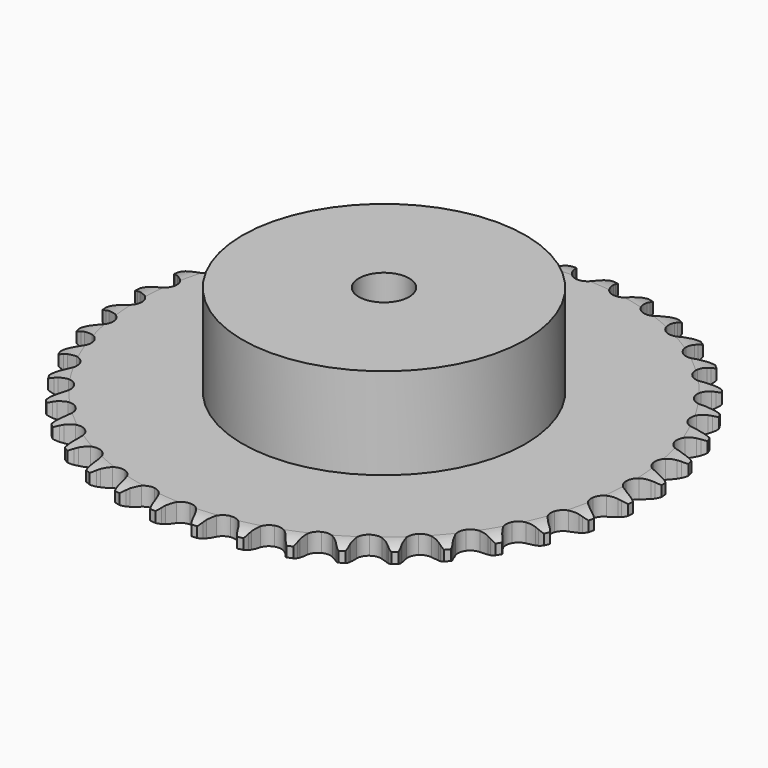
from build123d import *

# Parameters (mm, degrees)
PAD_DEPTH         = 5.9
SKETCH001_R       = 45
PAD001_DEPTH      = 35
SKETCH002_R       = 8
POCKET_DEPTH      = 0.001
POCKET_DEPTH_BACK = 35.001


with BuildPart() as part:
    # Sprocket → Pad (new body)
    with BuildSketch(Plane.XY):
        with BuildLine():
            ThreePointArc((-6.672936, 84.787696), (-5.635143, 83.612537), (-4.92136, 82.216641))
            Line((-4.92136, 82.216641), (-4.543533, 81.172906))
            ThreePointArc((-4.543533, 81.172906), (-3.945873, 79.833685), (-3.161147, 78.594767))
            ThreePointArc((-3.161147, 78.594767), (-1.770001, 77.422275), (0, 77.001417))
            ThreePointArc((0, 77.001417), (1.770001, 77.422275), (3.161147, 78.594767))
            ThreePointArc((3.161147, 78.594767), (3.945873, 79.833685), (4.543533, 81.172906))
            Line((4.543533, 81.172906), (4.92136, 82.216641))
            ThreePointArc((4.92136, 82.216641), (5.635143, 83.612537), (6.672936, 84.787696))
            ThreePointArc((6.672936, 84.787696), (7.514117, 83.464659), (8.000746, 81.974288))
            Line((8.000746, 81.974288), (8.210645, 80.884298))
            ThreePointArc((8.210645, 80.884298), (8.591447, 79.46807), (9.172702, 78.121647))
            ThreePointArc((9.172702, 78.121647), (10.363303, 76.745967), (12.045676, 76.053402))
            ThreePointArc((12.045676, 76.053402), (13.859721, 76.192189), (15.417158, 77.132622))
            Line((15.417158, 77.132622), (17.185835, 79.462768))
            ThreePointArc((17.185835, 79.462768), (17.440743, 79.956009), (17.722286, 80.434547))
            ThreePointArc((17.722286, 80.434547), (18.645648, 81.701597), (19.854499, 82.699942))
            ThreePointArc((19.854499, 82.699942), (20.478355, 81.261603), (20.725848, 79.713456))
            Line((20.725848, 79.713456), (20.76265, 78.60405))
            ThreePointArc((20.76265, 78.60405), (20.917217, 77.145688), (21.280689, 75.724913))
            ThreePointArc((21.280689, 75.724913), (22.241428, 74.179919), (23.794747, 73.2327))
            ThreePointArc((23.794747, 73.2327), (25.60817, 73.085999), (27.293548, 73.771217))
            Line((27.293548, 73.771217), (29.404965, 75.795992))
            ThreePointArc((29.404965, 75.795992), (29.733894, 76.243285), (30.086831, 76.671888))
            ThreePointArc((30.086831, 76.671888), (31.197035, 77.778893), (32.547179, 78.57584))
            ThreePointArc((32.547179, 78.57584), (32.938348, 77.057618), (32.94061, 75.489814))
            Line((32.94061, 75.489814), (32.80341, 74.38831))
            ThreePointArc((32.80341, 74.38831), (32.727936, 72.923723), (32.864675, 71.46358))
            ThreePointArc((32.864675, 71.46358), (33.571895, 69.787316), (34.957912, 68.608765))
            ThreePointArc((34.957912, 68.608765), (36.72606, 68.180188), (38.49788, 68.593319))
            Line((38.49788, 68.593319), (40.900046, 70.262868))
            ThreePointArc((40.900046, 70.262868), (41.294898, 70.653198), (41.710538, 71.021313))
            ThreePointArc((41.710538, 71.021313), (42.980247, 71.941015), (44.438438, 72.516941))
            ThreePointArc((44.438438, 72.516941), (44.587289, 70.956218), (44.344265, 69.407363))
            Line((44.344265, 69.407363), (44.036441, 68.340883))
            ThreePointArc((44.036441, 68.340883), (43.732784, 66.906133), (43.639423, 65.442577))
            ThreePointArc((43.639423, 65.442577), (44.075711, 63.676317), (45.260297, 62.295455))
            ThreePointArc((45.260297, 62.295455), (46.939632, 61.595556), (48.754266, 61.726426))
            Line((48.754266, 61.726426), (51.388033, 62.999639))
            ThreePointArc((51.388033, 62.999639), (51.839085, 63.323394), (52.307193, 63.621957))
            ThreePointArc((52.307193, 63.621957), (53.705143, 64.331709), (55.235476, 64.672433))
            ThreePointArc((55.235476, 64.672433), (55.138344, 63.10764), (54.656017, 61.615872))
            Line((54.656017, 61.615872), (54.185149, 60.610676))
            ThreePointArc((54.185149, 60.610676), (53.660787, 59.241093), (53.339624, 57.810161))
            ThreePointArc((53.339624, 57.810161), (53.494236, 55.997395), (54.448224, 54.448224))
            ThreePointArc((54.448224, 54.448224), (55.997395, 53.494236), (57.810161, 53.339624))
            Line((57.810161, 53.339624), (60.610676, 54.185149))
            ThreePointArc((60.610676, 54.185149), (61.106821, 54.434359), (61.615872, 54.656017))
            ThreePointArc((61.615872, 54.656017), (63.10764, 55.138344), (64.672433, 55.235476))
            ThreePointArc((64.672433, 55.235476), (64.331709, 53.705143), (63.621957, 52.307193))
            Line((63.621957, 52.307193), (62.999639, 51.388033))
            ThreePointArc((62.999639, 51.388033), (62.267482, 50.117341), (61.726426, 48.754266))
            ThreePointArc((61.726426, 48.754266), (61.595556, 46.939632), (62.295455, 45.260297))
            ThreePointArc((62.295455, 45.260297), (63.676317, 44.075711), (65.442577, 43.639423))
            Line((65.442577, 43.639423), (68.340883, 44.036441))
            ThreePointArc((68.340883, 44.036441), (68.869904, 44.204968), (69.407363, 44.344265))
            ThreePointArc((69.407363, 44.344265), (70.956218, 44.587289), (72.516941, 44.438438))
            ThreePointArc((72.516941, 44.438438), (71.941015, 42.980247), (71.021313, 41.710538))
            Line((71.021313, 41.710538), (70.262868, 40.900046))
            ThreePointArc((70.262868, 40.900046), (69.340945, 39.759533), (68.593319, 38.49788))
            ThreePointArc((68.593319, 38.49788), (68.180188, 36.72606), (68.608765, 34.957912))
            ThreePointArc((68.608765, 34.957912), (69.787316, 33.571895), (71.46358, 32.864675))
            Line((71.46358, 32.864675), (74.38831, 32.80341))
            ThreePointArc((74.38831, 32.80341), (74.937182, 32.887105), (75.489814, 32.94061))
            ThreePointArc((75.489814, 32.94061), (77.057618, 32.938348), (78.57584, 32.547179))
            ThreePointArc((78.57584, 32.547179), (77.778893, 31.197035), (76.671888, 30.086831))
            Line((76.671888, 30.086831), (75.795992, 29.404965))
            ThreePointArc((75.795992, 29.404965), (74.707004, 28.422713), (73.771217, 27.293548))
            ThreePointArc((73.771217, 27.293548), (73.085999, 25.60817), (73.2327, 23.794747))
            ThreePointArc((73.2327, 23.794747), (74.179919, 22.241428), (75.724913, 21.280689))
            Line((75.724913, 21.280689), (78.60405, 20.76265))
            ThreePointArc((78.60405, 20.76265), (79.159258, 20.759452), (79.713456, 20.725848))
            ThreePointArc((79.713456, 20.725848), (81.261603, 20.478355), (82.699942, 19.854499))
            ThreePointArc((82.699942, 19.854499), (81.701597, 18.645648), (80.434547, 17.722286))
            Line((80.434547, 17.722286), (79.462768, 17.185835))
            ThreePointArc((79.462768, 17.185835), (78.233529, 16.386032), (77.132622, 15.417158))
            ThreePointArc((77.132622, 15.417158), (76.192189, 13.859721), (76.053402, 12.045676))
            ThreePointArc((76.053402, 12.045676), (76.745967, 10.363303), (78.121647, 9.172702))
            Line((78.121647, 9.172702), (80.884298, 8.210645))
            ThreePointArc((80.884298, 8.210645), (81.43217, 8.120633), (81.974288, 8.000746))
            ThreePointArc((81.974288, 8.000746), (83.464659, 7.514117), (84.787696, 6.672936))
            ThreePointArc((84.787696, 6.672936), (83.612537, 5.635143), (82.216641, 4.92136))
            Line((82.216641, 4.92136), (81.172906, 4.543533))
            ThreePointArc((81.172906, 4.543533), (79.833685, 3.945873), (78.594767, 3.161147))
            ThreePointArc((78.594767, 3.161147), (77.422275, 1.770001), (77.001417, 0))
            ThreePointArc((77.001417, 0), (77.422275, -1.770001), (78.594767, -3.161147))
            Line((78.594767, -3.161147), (81.172906, -4.543533))
            ThreePointArc((81.172906, -4.543533), (81.699951, -4.718143), (82.216641, -4.92136))
            ThreePointArc((82.216641, -4.92136), (83.612537, -5.635143), (84.787696, -6.672936))
            ThreePointArc((84.787696, -6.672936), (83.464659, -7.514117), (81.974288, -8.000746))
            Line((81.974288, -8.000746), (80.884298, -8.210645))
            ThreePointArc((80.884298, -8.210645), (79.46807, -8.591447), (78.121647, -9.172702))
            ThreePointArc((78.121647, -9.172702), (76.745967, -10.363303), (76.053402, -12.045676))
            ThreePointArc((76.053402, -12.045676), (76.192189, -13.859721), (77.132622, -15.417158))
            Line((77.132622, -15.417158), (79.462768, -17.185835))
            ThreePointArc((79.462768, -17.185835), (79.956009, -17.440743), (80.434547, -17.722286))
            ThreePointArc((80.434547, -17.722286), (81.701597, -18.645648), (82.699942, -19.854499))
            ThreePointArc((82.699942, -19.854499), (81.261603, -20.478355), (79.713456, -20.725848))
            Line((79.713456, -20.725848), (78.60405, -20.76265))
            ThreePointArc((78.60405, -20.76265), (77.145688, -20.917217), (75.724913, -21.280689))
            ThreePointArc((75.724913, -21.280689), (74.179919, -22.241428), (73.2327, -23.794747))
            ThreePointArc((73.2327, -23.794747), (73.085999, -25.60817), (73.771217, -27.293548))
            Line((73.771217, -27.293548), (75.795992, -29.404965))
            ThreePointArc((75.795992, -29.404965), (76.243285, -29.733894), (76.671888, -30.086831))
            ThreePointArc((76.671888, -30.086831), (77.778893, -31.197035), (78.57584, -32.547179))
            ThreePointArc((78.57584, -32.547179), (77.057618, -32.938348), (75.489814, -32.94061))
            Line((75.489814, -32.94061), (74.38831, -32.80341))
            ThreePointArc((74.38831, -32.80341), (72.923723, -32.727936), (71.46358, -32.864675))
            ThreePointArc((71.46358, -32.864675), (69.787316, -33.571895), (68.608765, -34.957912))
            ThreePointArc((68.608765, -34.957912), (68.180188, -36.72606), (68.593319, -38.49788))
            Line((68.593319, -38.49788), (70.262868, -40.900046))
            ThreePointArc((70.262868, -40.900046), (70.653198, -41.294898), (71.021313, -41.710538))
            ThreePointArc((71.021313, -41.710538), (71.941015, -42.980247), (72.516941, -44.438438))
            ThreePointArc((72.516941, -44.438438), (70.956218, -44.587289), (69.407363, -44.344265))
            Line((69.407363, -44.344265), (68.340883, -44.036441))
            ThreePointArc((68.340883, -44.036441), (66.906133, -43.732784), (65.442577, -43.639423))
            ThreePointArc((65.442577, -43.639423), (63.676317, -44.075711), (62.295455, -45.260297))
            ThreePointArc((62.295455, -45.260297), (61.595556, -46.939632), (61.726426, -48.754266))
            Line((61.726426, -48.754266), (62.999639, -51.388033))
            ThreePointArc((62.999639, -51.388033), (63.323394, -51.839085), (63.621957, -52.307193))
            ThreePointArc((63.621957, -52.307193), (64.331709, -53.705143), (64.672433, -55.235476))
            ThreePointArc((64.672433, -55.235476), (63.10764, -55.138344), (61.615872, -54.656017))
            Line((61.615872, -54.656017), (60.610676, -54.185149))
            ThreePointArc((60.610676, -54.185149), (59.241093, -53.660787), (57.810161, -53.339624))
            ThreePointArc((57.810161, -53.339624), (55.997395, -53.494236), (54.448224, -54.448224))
            ThreePointArc((54.448224, -54.448224), (53.494236, -55.997395), (53.339624, -57.810161))
            Line((53.339624, -57.810161), (54.185149, -60.610676))
            ThreePointArc((54.185149, -60.610676), (54.434359, -61.106821), (54.656017, -61.615872))
            ThreePointArc((54.656017, -61.615872), (55.138344, -63.10764), (55.235476, -64.672433))
            ThreePointArc((55.235476, -64.672433), (53.705143, -64.331709), (52.307193, -63.621957))
            Line((52.307193, -63.621957), (51.388033, -62.999639))
            ThreePointArc((51.388033, -62.999639), (50.117341, -62.267482), (48.754266, -61.726426))
            ThreePointArc((48.754266, -61.726426), (46.939632, -61.595556), (45.260297, -62.295455))
            ThreePointArc((45.260297, -62.295455), (44.075711, -63.676317), (43.639423, -65.442577))
            Line((43.639423, -65.442577), (44.036441, -68.340883))
            ThreePointArc((44.036441, -68.340883), (44.204968, -68.869904), (44.344265, -69.407363))
            ThreePointArc((44.344265, -69.407363), (44.587289, -70.956218), (44.438438, -72.516941))
            ThreePointArc((44.438438, -72.516941), (42.980247, -71.941015), (41.710538, -71.021313))
            Line((41.710538, -71.021313), (40.900046, -70.262868))
            ThreePointArc((40.900046, -70.262868), (39.759533, -69.340945), (38.49788, -68.593319))
            ThreePointArc((38.49788, -68.593319), (36.72606, -68.180188), (34.957912, -68.608765))
            ThreePointArc((34.957912, -68.608765), (33.571895, -69.787316), (32.864675, -71.46358))
            Line((32.864675, -71.46358), (32.80341, -74.38831))
            ThreePointArc((32.80341, -74.38831), (32.887105, -74.937182), (32.94061, -75.489814))
            ThreePointArc((32.94061, -75.489814), (32.938348, -77.057618), (32.547179, -78.57584))
            ThreePointArc((32.547179, -78.57584), (31.197035, -77.778893), (30.086831, -76.671888))
            Line((30.086831, -76.671888), (29.404965, -75.795992))
            ThreePointArc((29.404965, -75.795992), (28.422713, -74.707004), (27.293548, -73.771217))
            ThreePointArc((27.293548, -73.771217), (25.60817, -73.085999), (23.794747, -73.2327))
            ThreePointArc((23.794747, -73.2327), (22.241428, -74.179919), (21.280689, -75.724913))
            Line((21.280689, -75.724913), (20.76265, -78.60405))
            ThreePointArc((20.76265, -78.60405), (20.759452, -79.159258), (20.725848, -79.713456))
            ThreePointArc((20.725848, -79.713456), (20.478355, -81.261603), (19.854499, -82.699942))
            ThreePointArc((19.854499, -82.699942), (18.645648, -81.701597), (17.722286, -80.434547))
            Line((17.722286, -80.434547), (17.185835, -79.462768))
            ThreePointArc((17.185835, -79.462768), (16.386032, -78.233529), (15.417158, -77.132622))
            ThreePointArc((15.417158, -77.132622), (13.859721, -76.192189), (12.045676, -76.053402))
            ThreePointArc((12.045676, -76.053402), (10.363303, -76.745967), (9.172702, -78.121647))
            Line((9.172702, -78.121647), (8.210645, -80.884298))
            ThreePointArc((8.210645, -80.884298), (8.120633, -81.43217), (8.000746, -81.974288))
            ThreePointArc((8.000746, -81.974288), (7.514117, -83.464659), (6.672936, -84.787696))
            ThreePointArc((6.672936, -84.787696), (5.635143, -83.612537), (4.92136, -82.216641))
            Line((4.92136, -82.216641), (4.543533, -81.172906))
            ThreePointArc((4.543533, -81.172906), (3.945873, -79.833685), (3.161147, -78.594767))
            ThreePointArc((3.161147, -78.594767), (1.770001, -77.422275), (0, -77.001417))
            ThreePointArc((0, -77.001417), (-1.770001, -77.422275), (-3.161147, -78.594767))
            Line((-3.161147, -78.594767), (-4.543533, -81.172906))
            ThreePointArc((-4.543533, -81.172906), (-4.718143, -81.699951), (-4.92136, -82.216641))
            ThreePointArc((-4.92136, -82.216641), (-5.635143, -83.612537), (-6.672936, -84.787696))
            ThreePointArc((-6.672936, -84.787696), (-7.514117, -83.464659), (-8.000746, -81.974288))
            Line((-8.000746, -81.974288), (-8.210645, -80.884298))
            ThreePointArc((-8.210645, -80.884298), (-8.591447, -79.46807), (-9.172702, -78.121647))
            ThreePointArc((-9.172702, -78.121647), (-10.363303, -76.745967), (-12.045676, -76.053402))
            ThreePointArc((-12.045676, -76.053402), (-13.859721, -76.192189), (-15.417158, -77.132622))
            Line((-15.417158, -77.132622), (-17.185835, -79.462768))
            ThreePointArc((-17.185835, -79.462768), (-17.440743, -79.956009), (-17.722286, -80.434547))
            ThreePointArc((-17.722286, -80.434547), (-18.645648, -81.701597), (-19.854499, -82.699942))
            ThreePointArc((-19.854499, -82.699942), (-20.478355, -81.261603), (-20.725848, -79.713456))
            Line((-20.725848, -79.713456), (-20.76265, -78.60405))
            ThreePointArc((-20.76265, -78.60405), (-20.917217, -77.145688), (-21.280689, -75.724913))
            ThreePointArc((-21.280689, -75.724913), (-22.241428, -74.179919), (-23.794747, -73.2327))
            ThreePointArc((-23.794747, -73.2327), (-25.60817, -73.085999), (-27.293548, -73.771217))
            Line((-27.293548, -73.771217), (-29.404965, -75.795992))
            ThreePointArc((-29.404965, -75.795992), (-29.733894, -76.243285), (-30.086831, -76.671888))
            ThreePointArc((-30.086831, -76.671888), (-31.197035, -77.778893), (-32.547179, -78.57584))
            ThreePointArc((-32.547179, -78.57584), (-32.938348, -77.057618), (-32.94061, -75.489814))
            Line((-32.94061, -75.489814), (-32.80341, -74.38831))
            ThreePointArc((-32.80341, -74.38831), (-32.727936, -72.923723), (-32.864675, -71.46358))
            ThreePointArc((-32.864675, -71.46358), (-33.571895, -69.787316), (-34.957912, -68.608765))
            ThreePointArc((-34.957912, -68.608765), (-36.72606, -68.180188), (-38.49788, -68.593319))
            Line((-38.49788, -68.593319), (-40.900046, -70.262868))
            ThreePointArc((-40.900046, -70.262868), (-41.294898, -70.653198), (-41.710538, -71.021313))
            ThreePointArc((-41.710538, -71.021313), (-42.980247, -71.941015), (-44.438438, -72.516941))
            ThreePointArc((-44.438438, -72.516941), (-44.587289, -70.956218), (-44.344265, -69.407363))
            Line((-44.344265, -69.407363), (-44.036441, -68.340883))
            ThreePointArc((-44.036441, -68.340883), (-43.732784, -66.906133), (-43.639423, -65.442577))
            ThreePointArc((-43.639423, -65.442577), (-44.075711, -63.676317), (-45.260297, -62.295455))
            ThreePointArc((-45.260297, -62.295455), (-46.939632, -61.595556), (-48.754266, -61.726426))
            Line((-48.754266, -61.726426), (-51.388033, -62.999639))
            ThreePointArc((-51.388033, -62.999639), (-51.839085, -63.323394), (-52.307193, -63.621957))
            ThreePointArc((-52.307193, -63.621957), (-53.705143, -64.331709), (-55.235476, -64.672433))
            ThreePointArc((-55.235476, -64.672433), (-55.138344, -63.10764), (-54.656017, -61.615872))
            Line((-54.656017, -61.615872), (-54.185149, -60.610676))
            ThreePointArc((-54.185149, -60.610676), (-53.660787, -59.241093), (-53.339624, -57.810161))
            ThreePointArc((-53.339624, -57.810161), (-53.494236, -55.997395), (-54.448224, -54.448224))
            ThreePointArc((-54.448224, -54.448224), (-55.997395, -53.494236), (-57.810161, -53.339624))
            Line((-57.810161, -53.339624), (-60.610676, -54.185149))
            ThreePointArc((-60.610676, -54.185149), (-61.106821, -54.434359), (-61.615872, -54.656017))
            ThreePointArc((-61.615872, -54.656017), (-63.10764, -55.138344), (-64.672433, -55.235476))
            ThreePointArc((-64.672433, -55.235476), (-64.331709, -53.705143), (-63.621957, -52.307193))
            Line((-63.621957, -52.307193), (-62.999639, -51.388033))
            ThreePointArc((-62.999639, -51.388033), (-62.267482, -50.117341), (-61.726426, -48.754266))
            ThreePointArc((-61.726426, -48.754266), (-61.595556, -46.939632), (-62.295455, -45.260297))
            ThreePointArc((-62.295455, -45.260297), (-63.676317, -44.075711), (-65.442577, -43.639423))
            Line((-65.442577, -43.639423), (-68.340883, -44.036441))
            ThreePointArc((-68.340883, -44.036441), (-68.869904, -44.204968), (-69.407363, -44.344265))
            ThreePointArc((-69.407363, -44.344265), (-70.956218, -44.587289), (-72.516941, -44.438438))
            ThreePointArc((-72.516941, -44.438438), (-71.941015, -42.980247), (-71.021313, -41.710538))
            Line((-71.021313, -41.710538), (-70.262868, -40.900046))
            ThreePointArc((-70.262868, -40.900046), (-69.340945, -39.759533), (-68.593319, -38.49788))
            ThreePointArc((-68.593319, -38.49788), (-68.180188, -36.72606), (-68.608765, -34.957912))
            ThreePointArc((-68.608765, -34.957912), (-69.787316, -33.571895), (-71.46358, -32.864675))
            Line((-71.46358, -32.864675), (-74.38831, -32.80341))
            ThreePointArc((-74.38831, -32.80341), (-74.937182, -32.887105), (-75.489814, -32.94061))
            ThreePointArc((-75.489814, -32.94061), (-77.057618, -32.938348), (-78.57584, -32.547179))
            ThreePointArc((-78.57584, -32.547179), (-77.778893, -31.197035), (-76.671888, -30.086831))
            Line((-76.671888, -30.086831), (-75.795992, -29.404965))
            ThreePointArc((-75.795992, -29.404965), (-74.707004, -28.422713), (-73.771217, -27.293548))
            ThreePointArc((-73.771217, -27.293548), (-73.085999, -25.60817), (-73.2327, -23.794747))
            ThreePointArc((-73.2327, -23.794747), (-74.179919, -22.241428), (-75.724913, -21.280689))
            Line((-75.724913, -21.280689), (-78.60405, -20.76265))
            ThreePointArc((-78.60405, -20.76265), (-79.159258, -20.759452), (-79.713456, -20.725848))
            ThreePointArc((-79.713456, -20.725848), (-81.261603, -20.478355), (-82.699942, -19.854499))
            ThreePointArc((-82.699942, -19.854499), (-81.701597, -18.645648), (-80.434547, -17.722286))
            Line((-80.434547, -17.722286), (-79.462768, -17.185835))
            ThreePointArc((-79.462768, -17.185835), (-78.233529, -16.386032), (-77.132622, -15.417158))
            ThreePointArc((-77.132622, -15.417158), (-76.192189, -13.859721), (-76.053402, -12.045676))
            ThreePointArc((-76.053402, -12.045676), (-76.745967, -10.363303), (-78.121647, -9.172702))
            Line((-78.121647, -9.172702), (-80.884298, -8.210645))
            ThreePointArc((-80.884298, -8.210645), (-81.43217, -8.120633), (-81.974288, -8.000746))
            ThreePointArc((-81.974288, -8.000746), (-83.464659, -7.514117), (-84.787696, -6.672936))
            ThreePointArc((-84.787696, -6.672936), (-83.612537, -5.635143), (-82.216641, -4.92136))
            Line((-82.216641, -4.92136), (-81.172906, -4.543533))
            ThreePointArc((-81.172906, -4.543533), (-79.833685, -3.945873), (-78.594767, -3.161147))
            ThreePointArc((-78.594767, -3.161147), (-77.422275, -1.770001), (-77.001417, 0))
            ThreePointArc((-77.001417, 0), (-77.422275, 1.770001), (-78.594767, 3.161147))
            Line((-78.594767, 3.161147), (-81.172906, 4.543533))
            ThreePointArc((-81.172906, 4.543533), (-81.699951, 4.718143), (-82.216641, 4.92136))
            ThreePointArc((-82.216641, 4.92136), (-83.612537, 5.635143), (-84.787696, 6.672936))
            ThreePointArc((-84.787696, 6.672936), (-83.464659, 7.514117), (-81.974288, 8.000746))
            Line((-81.974288, 8.000746), (-80.884298, 8.210645))
            ThreePointArc((-80.884298, 8.210645), (-79.46807, 8.591447), (-78.121647, 9.172702))
            ThreePointArc((-78.121647, 9.172702), (-76.745967, 10.363303), (-76.053402, 12.045676))
            ThreePointArc((-76.053402, 12.045676), (-76.192189, 13.859721), (-77.132622, 15.417158))
            Line((-77.132622, 15.417158), (-79.462768, 17.185835))
            ThreePointArc((-79.462768, 17.185835), (-79.956009, 17.440743), (-80.434547, 17.722286))
            ThreePointArc((-80.434547, 17.722286), (-81.701597, 18.645648), (-82.699942, 19.854499))
            ThreePointArc((-82.699942, 19.854499), (-81.261603, 20.478355), (-79.713456, 20.725848))
            Line((-79.713456, 20.725848), (-78.60405, 20.76265))
            ThreePointArc((-78.60405, 20.76265), (-77.145688, 20.917217), (-75.724913, 21.280689))
            ThreePointArc((-75.724913, 21.280689), (-74.179919, 22.241428), (-73.2327, 23.794747))
            ThreePointArc((-73.2327, 23.794747), (-73.085999, 25.60817), (-73.771217, 27.293548))
            Line((-73.771217, 27.293548), (-75.795992, 29.404965))
            ThreePointArc((-75.795992, 29.404965), (-76.243285, 29.733894), (-76.671888, 30.086831))
            ThreePointArc((-76.671888, 30.086831), (-77.778893, 31.197035), (-78.57584, 32.547179))
            ThreePointArc((-78.57584, 32.547179), (-77.057618, 32.938348), (-75.489814, 32.94061))
            Line((-75.489814, 32.94061), (-74.38831, 32.80341))
            ThreePointArc((-74.38831, 32.80341), (-72.923723, 32.727936), (-71.46358, 32.864675))
            ThreePointArc((-71.46358, 32.864675), (-69.787316, 33.571895), (-68.608765, 34.957912))
            ThreePointArc((-68.608765, 34.957912), (-68.180188, 36.72606), (-68.593319, 38.49788))
            Line((-68.593319, 38.49788), (-70.262868, 40.900046))
            ThreePointArc((-70.262868, 40.900046), (-70.653198, 41.294898), (-71.021313, 41.710538))
            ThreePointArc((-71.021313, 41.710538), (-71.941015, 42.980247), (-72.516941, 44.438438))
            ThreePointArc((-72.516941, 44.438438), (-70.956218, 44.587289), (-69.407363, 44.344265))
            Line((-69.407363, 44.344265), (-68.340883, 44.036441))
            ThreePointArc((-68.340883, 44.036441), (-66.906133, 43.732784), (-65.442577, 43.639423))
            ThreePointArc((-65.442577, 43.639423), (-63.676317, 44.075711), (-62.295455, 45.260297))
            ThreePointArc((-62.295455, 45.260297), (-61.595556, 46.939632), (-61.726426, 48.754266))
            Line((-61.726426, 48.754266), (-62.999639, 51.388033))
            ThreePointArc((-62.999639, 51.388033), (-63.323394, 51.839085), (-63.621957, 52.307193))
            ThreePointArc((-63.621957, 52.307193), (-64.331709, 53.705143), (-64.672433, 55.235476))
            ThreePointArc((-64.672433, 55.235476), (-63.10764, 55.138344), (-61.615872, 54.656017))
            Line((-61.615872, 54.656017), (-60.610676, 54.185149))
            ThreePointArc((-60.610676, 54.185149), (-59.241093, 53.660787), (-57.810161, 53.339624))
            ThreePointArc((-57.810161, 53.339624), (-55.997395, 53.494236), (-54.448224, 54.448224))
            ThreePointArc((-54.448224, 54.448224), (-53.494236, 55.997395), (-53.339624, 57.810161))
            Line((-53.339624, 57.810161), (-54.185149, 60.610676))
            ThreePointArc((-54.185149, 60.610676), (-54.434359, 61.106821), (-54.656017, 61.615872))
            ThreePointArc((-54.656017, 61.615872), (-55.138344, 63.10764), (-55.235476, 64.672433))
            ThreePointArc((-55.235476, 64.672433), (-53.705143, 64.331709), (-52.307193, 63.621957))
            Line((-52.307193, 63.621957), (-51.388033, 62.999639))
            ThreePointArc((-51.388033, 62.999639), (-50.117341, 62.267482), (-48.754266, 61.726426))
            ThreePointArc((-48.754266, 61.726426), (-46.939632, 61.595556), (-45.260297, 62.295455))
            ThreePointArc((-45.260297, 62.295455), (-44.075711, 63.676317), (-43.639423, 65.442577))
            Line((-43.639423, 65.442577), (-44.036441, 68.340883))
            ThreePointArc((-44.036441, 68.340883), (-44.204968, 68.869904), (-44.344265, 69.407363))
            ThreePointArc((-44.344265, 69.407363), (-44.587289, 70.956218), (-44.438438, 72.516941))
            ThreePointArc((-44.438438, 72.516941), (-42.980247, 71.941015), (-41.710538, 71.021313))
            Line((-41.710538, 71.021313), (-40.900046, 70.262868))
            ThreePointArc((-40.900046, 70.262868), (-39.759533, 69.340945), (-38.49788, 68.593319))
            ThreePointArc((-38.49788, 68.593319), (-36.72606, 68.180188), (-34.957912, 68.608765))
            ThreePointArc((-34.957912, 68.608765), (-33.571895, 69.787316), (-32.864675, 71.46358))
            Line((-32.864675, 71.46358), (-32.80341, 74.38831))
            ThreePointArc((-32.80341, 74.38831), (-32.887105, 74.937182), (-32.94061, 75.489814))
            ThreePointArc((-32.94061, 75.489814), (-32.938348, 77.057618), (-32.547179, 78.57584))
            ThreePointArc((-32.547179, 78.57584), (-31.197035, 77.778893), (-30.086831, 76.671888))
            Line((-30.086831, 76.671888), (-29.404965, 75.795992))
            ThreePointArc((-29.404965, 75.795992), (-28.422713, 74.707004), (-27.293548, 73.771217))
            ThreePointArc((-27.293548, 73.771217), (-25.60817, 73.085999), (-23.794747, 73.2327))
            ThreePointArc((-23.794747, 73.2327), (-22.241428, 74.179919), (-21.280689, 75.724913))
            Line((-21.280689, 75.724913), (-20.76265, 78.60405))
            ThreePointArc((-20.76265, 78.60405), (-20.759452, 79.159258), (-20.725848, 79.713456))
            ThreePointArc((-20.725848, 79.713456), (-20.478355, 81.261603), (-19.854499, 82.699942))
            ThreePointArc((-19.854499, 82.699942), (-18.645648, 81.701597), (-17.722286, 80.434547))
            Line((-17.722286, 80.434547), (-17.185835, 79.462768))
            ThreePointArc((-17.185835, 79.462768), (-16.386032, 78.233529), (-15.417158, 77.132622))
            ThreePointArc((-15.417158, 77.132622), (-13.859721, 76.192189), (-12.045676, 76.053402))
            ThreePointArc((-12.045676, 76.053402), (-10.363303, 76.745967), (-9.172702, 78.121647))
            Line((-9.172702, 78.121647), (-8.210645, 80.884298))
            ThreePointArc((-8.210645, 80.884298), (-8.120633, 81.43217), (-8.000746, 81.974288))
            ThreePointArc((-8.000746, 81.974288), (-7.514117, 83.464659), (-6.672936, 84.787696))
        make_face()
    extrude(amount=PAD_DEPTH)

    # Sketch → Groove (revolve, cut)
    with BuildSketch(Plane.XZ):
        with BuildLine():
            Line((78.233431, 0), (83.9, 0))
            Line((89.566569, 0), (83.9, 0))
            Line((89.566569, 5.9), (89.566569, 0))
            Line((83.9, 5.9), (89.566569, 5.9))
            Line((78.233431, 5.9), (83.9, 5.9))
            ThreePointArc((83.9, 4.6), (81.14032, 5.570833), (78.233431, 5.9))
            Line((83.9, 1.3), (83.9, 4.6))
            ThreePointArc((78.233431, 0), (81.14032, 0.329167), (83.9, 1.3))
        make_face()
    revolve(axis=Axis((0, 0, 0), (0, 0, 1)), mode=Mode.SUBTRACT)

    # Sketch001 → Pad001 (join)
    with BuildSketch(Plane.XY):
        Circle(SKETCH001_R)
    extrude(amount=PAD001_DEPTH)

    # Sketch002 → Pocket (cut, two sides)
    with BuildSketch(Plane.XY) as pocket_sk:
        Circle(SKETCH002_R)
    extrude(amount=-POCKET_DEPTH, mode=Mode.SUBTRACT)
    extrude(pocket_sk.sketch, amount=POCKET_DEPTH_BACK, mode=Mode.SUBTRACT)


solid = part.part
